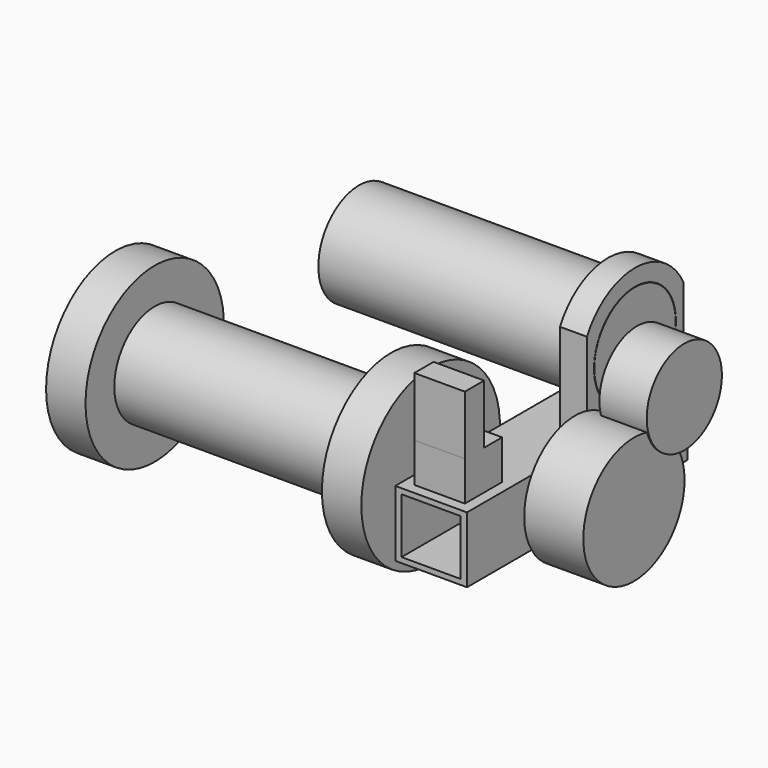
from build123d import *

# Parameters (mm, degrees)
F0_W      = 46.207324
F0_H      = 42.485934
F1_DEPTH  = 177.8
F2_W      = 38.144302
F2_H      = 35.663374
F3_DEPTH  = 254
F4_R      = 40.769677
F5_DEPTH  = 38.1
F6_W      = 17.366514
F6_H      = 77.721044
F7_DEPTH  = 101.6
F9_DEPTH  = 254
F10_R     = 33.02
F11_DEPTH = 254
F12_W     = 32.562212
F12_H     = 29.977887
F13_DEPTH = 25.4
F14_W     = 32.562212
F14_H     = 15.50582
F15_DEPTH = 38.1
F16_R     = 32.765796
F17_DEPTH = 177.8
F18_R     = 7.62
F19_DEPTH = 11.176
F20_R     = 30.295262
F21_DEPTH = 30.48
F22_R     = 6.35
F23_DEPTH = 25.4
F24_R     = 55.811809
F25_DEPTH = 25.4
F26_R     = 32.528771
F27_DEPTH = 152.4
F28_R     = 55.715673
F29_DEPTH = 25.4


with BuildPart() as f1:
    # F0 (on Front) → F1 (new body)
    with BuildSketch(Plane.XZ):
        Rectangle(F0_W, F0_H)
    extrude(amount=F1_DEPTH)

    # F2 (on face) → F3 (cut)
    with BuildSketch(Plane.XZ.offset(177.8)):
        Rectangle(F2_W, F2_H)
    extrude(amount=-F3_DEPTH, mode=Mode.SUBTRACT)

    # F4 (on face) → F5 (join)
    with BuildSketch(Plane.YZ.offset(23.103662)):
        with Locations((-90.960056, 0)):
            Circle(F4_R)
    extrude(amount=F5_DEPTH)

    # F6 (on face) → F7 (join)
    with BuildSketch(Plane.XY.offset(21.242967)):
        with Locations((11.62936, -38.860522)):
            Rectangle(F6_W, F6_H)
    extrude(amount=F7_DEPTH)

    # F8 (on face) → F9 (cut)
    with BuildSketch(Plane.YZ.offset(20.312617)):
        with BuildLine():
            ThreePointArc((-77.721044, 79.297468), (-38.671653, 102.654477), (0, 78.677237))
            Line((0, 78.677237), (0, 122.842967))
            Line((0, 122.842967), (-77.721044, 122.842967))
            Line((-77.721044, 122.842967), (-77.721044, 79.297468))
        make_face()
    extrude(amount=-F9_DEPTH, mode=Mode.SUBTRACT)

    # F10 (on face) → F11 (cut)
    with BuildSketch(Plane.YZ.offset(20.312617)):
        with Locations((-39.020687, 58.917161)):
            Circle(F10_R)
    extrude(amount=-F11_DEPTH, mode=Mode.SUBTRACT)

    # F12 (on face) → F13 (join)
    with BuildSketch(Plane.XY.offset(21.242967)):
        with Locations((0, -155.981109)):
            Rectangle(F12_W, F12_H)
    extrude(amount=F13_DEPTH)

    # F14 (on face) → F15 (join)
    with BuildSketch(Plane.XY.offset(46.642967)):
        with Locations((0, -163.217142)):
            Rectangle(F14_W, F14_H)
    extrude(amount=F15_DEPTH)

    # F22 (on face) → F23 (join)
    with BuildSketch(Plane(origin=(-23.103662, 0, 0), x_dir=(0, -1, 0), z_dir=(-1, 0, 0))):
        with Locations((117.578566, 0)):
            Circle(F22_R)
    extrude(amount=F23_DEPTH)

    # F24 (on face) → F25 (join)
    with BuildSketch(Plane(origin=(-48.503662, 0, 0), x_dir=(0, -1, 0), z_dir=(-1, 0, 0))):
        with Locations((117.578566, 0)):
            Circle(F24_R)
    extrude(amount=F25_DEPTH)

    # F26 (on face) → F27 (join)
    with BuildSketch(Plane(origin=(-73.903662, 0, 0), x_dir=(0, -1, 0), z_dir=(-1, 0, 0))):
        with Locations((117.578566, 0)):
            Circle(F26_R)
    extrude(amount=F27_DEPTH)

    # F28 (on face) → F29 (join)
    with BuildSketch(Plane(origin=(-226.303662, 0, 0), x_dir=(0, -1, 0), z_dir=(-1, 0, 0))):
        with Locations((117.578566, 0)):
            Circle(F28_R)
    extrude(amount=F29_DEPTH)


with BuildPart() as f17:
    # F16 (on face) → F17 (new body)
    with BuildSketch(Plane.YZ.offset(20.312617)):
        with Locations((-39.020687, 58.917161)):
            Circle(F16_R)
    extrude(amount=-F17_DEPTH)

    # F18 (on face) → F19 (join)
    with BuildSketch(Plane.YZ.offset(20.312617)):
        with Locations((-51.345922, 47.98428)):
            Circle(F18_R)
    extrude(amount=F19_DEPTH)


with BuildPart() as f21:
    # F20 (on face) → F21 (new body)
    with BuildSketch(Plane.YZ.offset(31.488617)):
        with Locations((-51.345922, 47.98428)):
            Circle(F20_R)
    extrude(amount=F21_DEPTH)


solid = Compound([f1.part, f17.part, f21.part])
